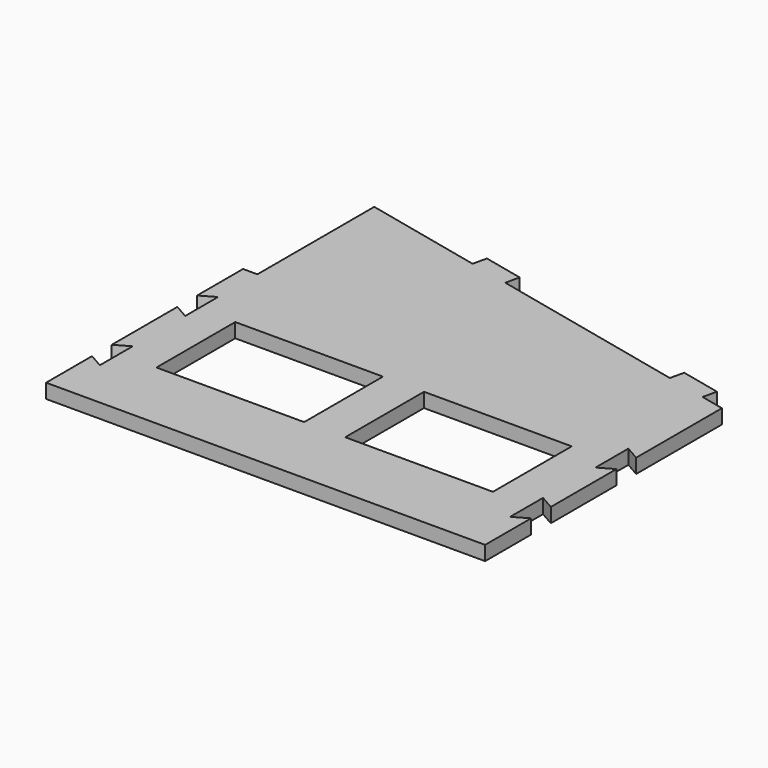
from build123d import *

# Parameters (mm, degrees)
F0_W     = 36
F0_H     = 24
F1_DEPTH = 3.5


with BuildPart() as f1:
    # F0 (on Top) → F1 (new body)
    with BuildSketch(Plane.XY):
        Polygon((-41, -30), (53.5, -30), (53.5, -16), (50, -18), (50, -13), (50, -8), (53.5, -10), (53.5, 10), (50, 8), (50, 13), (50, 18), (53.5, 16), (53.5, 30), (53.5, 42.130981), (47.742696, 43.436434), (48.516665, 46.849786), (38.76423, 49.061125), (37.990261, 45.647772), (-10.990261, 56.753974), (-10.216292, 60.167326), (-19.968727, 62.378664), (-20.742696, 58.965312), (-50, 65.599327), (-50, 30), (-53.5, 30), (-53.5, 16), (-50, 18), (-50, 13), (-50, 8), (-53.5, 10), (-53.5, -10), (-50, -8), (-50, -13), (-50, -18), (-53.5, -16), (-53.5, -30), (-50, -30), align=None)
        with Locations((-23, 0)):
            Rectangle(F0_W, F0_H, mode=Mode.SUBTRACT)
        with Locations((23, 0)):
            Rectangle(F0_W, F0_H, mode=Mode.SUBTRACT)
    extrude(amount=F1_DEPTH)


solid = f1.part
